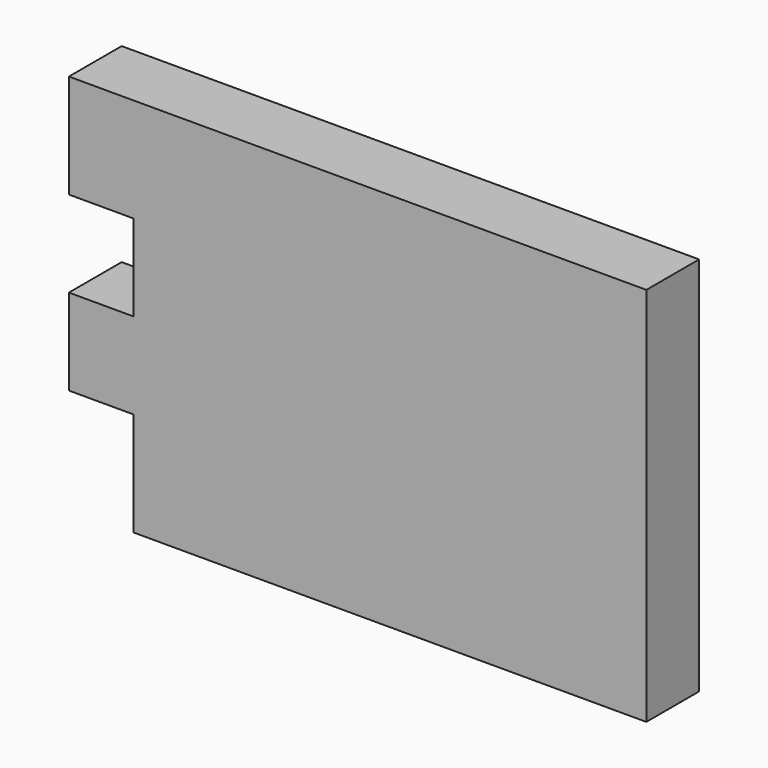
from build123d import *

# Parameters (mm, degrees)
F0_W     = 24.965014
F0_H     = 33.211623
F0_H_2   = 40.005
F1_DEPTH = 25.4


with BuildPart() as f1:
    # F0 (on Front) → F1 (new body)
    with BuildSketch(Plane.XZ):
        Polygon((-197.347208, 0), (0, 0), (0, 146.433245), (-197.347208, 146.433245), (-197.347208, 106.428245), (-197.347208, 73.216623), (-197.347208, 40.005), align=None)
        with Locations((-209.829715, 56.610811)):
            Rectangle(F0_W, F0_H)
        with Locations((-209.829715, 126.430745)):
            Rectangle(F0_W, F0_H_2)
    extrude(amount=F1_DEPTH)


solid = f1.part
